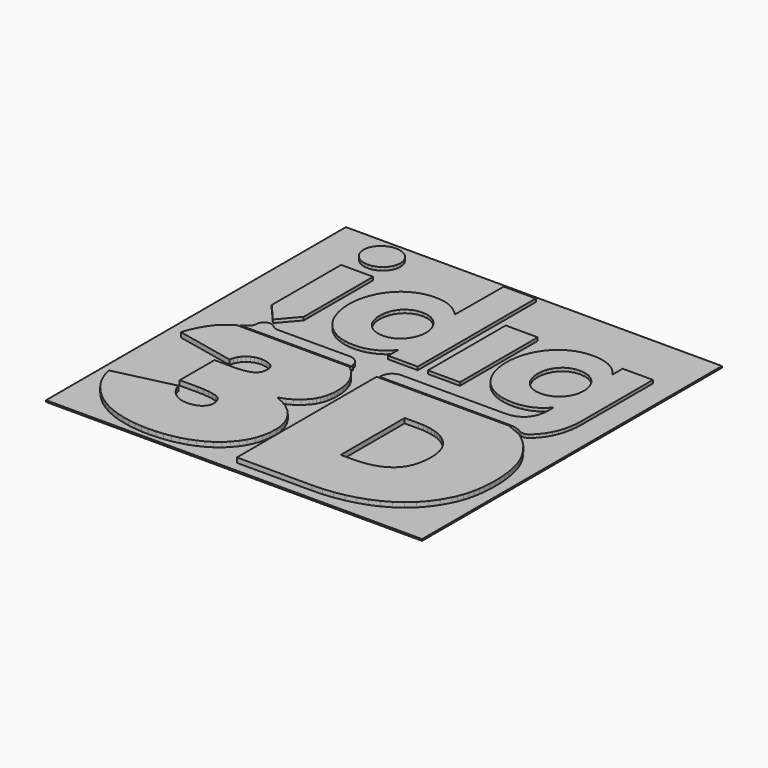
from build123d import *

# Parameters (mm, degrees)
F0_W     = 46.9185076654
F0_H     = 46.7687696218
F0_W_2   = 3.9959057482
F0_H_2   = 12.1340087248
F1_DEPTH = 0.2
F2_DEPTH = 0.4
F3_DEPTH = 0.6


with BuildPart() as f1:
    # F0 (on Top) → F1 (new body)
    with BuildSketch(Plane.XY):
        Rectangle(F0_W, F0_H)
        Polygon((-20.8741723719, -18.0882601642), (-21.2963307093, -17.3120969048), (-21.6419878097, -16.4699285664), (-21.9112868955, -15.5616937678), (-14.579116983, -13.8442113289), (-14.4440377728, -14.2651625059), (-14.2365493949, -14.6697658657), (-13.9568155322, -15.057939567), (-13.6047338829, -15.4295813079), (-13.1887954909, -15.7473918762), (-12.7172254157, -15.974399425), (-12.1898395142, -16.110706256), (-11.6065150243, -16.1562305278), (-11.2679576642, -16.1354632757), (-10.9129706457, -16.0736321074), (-10.5661882262, -15.9660720638), (-10.2523878859, -15.8094685687), (-9.9799788273, -15.5987883767), (-9.7569610462, -15.3304713876), (-9.6084598485, -14.9918935672), (-9.5588025865, -14.5708810092), (-9.6166644476, -14.0876689966), (-9.7900454271, -13.6953623053), (-10.078986446, -13.3940018559), (-10.4835898058, -13.1836285691), (-10.985359353, -13.0390966787), (-11.5654511081, -12.9358742286), (-12.2239469125, -12.8739407586), (-12.960662623, -12.8533985703), (-15.2066358222, -12.8533985703), (-15.2066358222, -7.4368286356), (-12.696478624, -7.4368286356), (-12.09993675, -7.4150588265), (-11.5652260443, -7.3500153837), (-11.0925715707, -7.2416983073), (-10.6817482654, -7.0899439144), (-10.3495131526, -6.8762560514), (-10.1121731286, -6.5820976441), (-9.9696668125, -6.2074482322), (-9.922157887, -5.7523282759), (-9.959313877, -5.4012287232), (-10.0707818469, -5.1081547143), (-10.2566027173, -4.8728402647), (-10.516571885, -4.6954695175), (-11.127742907, -4.4724517364), (-11.7717118651, -4.3981806771), (-12.1764175266, -4.4300374373), (-12.5644889262, -4.5260578452), (-12.936007905, -4.6860168372), (-13.2909949236, -4.9101599374), (-13.6048157243, -5.1958682215), (-13.8525905251, -5.5416276236), (-14.0341965642, -5.9473767628), (-14.1497361431, -6.412931496), (-21.4489648971, -4.8606254376), (-21.1207195519, -3.9408510034), (-20.7306430384, -3.0975982666), (-20.2785307531, -2.330744465), (-19.7644645374, -1.6404123608), (-19.4045874959, -1.2635327711), (-19.000741169, -0.9265508577), (-18.5592887244, -0.6145305676), (-18.0868593146, -0.3121266406), (-4.0067237744, -0.3121266406), (-3.2959313233, -1.01043828), (-2.688872831, -1.8055273603), (-2.3134254655, -2.4917673951), (-2.0449857143, -3.2461813057), (-1.8839627842, -4.0687281715), (-1.8301520719, -4.9596535166), (-1.8465203494, -5.4423949412), (-1.895215975, -5.8998678374), (-1.9764435522, -6.3321131258), (-2.0904076844, -6.7389466634), (-2.2366991647, -7.1205730537), (-2.4155225965, -7.4769104552), (-2.6268779799, -7.8080202489), (-2.8705607114, -8.1138410539), (-3.4186934047, -8.6535440843), (-4.0225805432, -9.1004594415), (-4.6820584443, -9.4544439031), (-5.3972498699, -9.7157429932), (-5.3972498699, -9.8478349928), (-4.5427644026, -10.2028424717), (-3.7623863118, -10.6734918313), (-3.0731181457, -11.2431692698), (-2.4908166731, -11.8955474305), (-2.0243207639, -12.6179613586), (-1.6816099535, -13.3983189891), (-1.4710729839, -14.2115359367), (-1.4008939941, -15.0333053093), (-1.4547047064, -16.0209057935), (-1.6157276365, -16.9363835549), (-1.8841673877, -17.7795749107), (-2.2596147532, -18.5507049247), (-2.722018593, -19.2523720611), (-3.2505093532, -19.8881978011), (-3.8449642718, -20.4579980017), (-4.5054447299, -20.961834044), (-5.2218637764, -21.4004220399), (-5.9835820308, -21.7750530376), (-6.7908040968, -22.0857556814), (-7.6432026087, -22.3325176951), (-8.5204809024, -22.5202270556), (-9.4019740276, -22.6544326089), (-10.2875592222, -22.7349113374), (-11.1771751051, -22.7618842127), (-12.065849812, -22.7360223343), (-12.9483454942, -22.6585390006), (-13.8246212309, -22.5295508357), (-14.6946770222, -22.3489493997), (-15.5431676079, -22.1125075849), (-16.3543999018, -21.8162376699), (-17.1284557455, -21.4602480943), (-17.8653965199, -21.0444324644), (-18.5610687746, -20.5695273526), (-19.2111962971, -20.036944523), (-19.8160859926, -19.4465202927), (-20.3755332577, -18.7984592652), align=None, mode=Mode.SUBTRACT)
        Polygon((17.9865123077, -19.2773541446), (17.026717435, -19.9492514762), (15.9967435724, -20.5282383726), (14.8963861165, -21.0143352941), (13.7260542742, -21.4076240821), (12.5080498237, -21.7110039677), (11.2652883534, -21.9277956653), (9.9979744669, -22.057894827), (8.7059035606, -22.1012953148), (-0.6741424725, -22.1012953148), (-0.6741424725, -0.3121266406), (15.8115651001, -0.3121266406), (17.8050290308, -1.1450673626), (18.7224709855, -1.8683406252), (19.5433401028, -2.7012813472), (20.266817969, -3.643562163), (20.8931091873, -4.6954695175), (21.1637995767, -5.2665791803), (21.3988889625, -5.8740059589), (21.5975589309, -6.5174838687), (21.7600140852, -7.1971561321), (21.886459029, -7.9130432095), (21.9768937623, -8.6648791165), (22.0311136815, -9.4530116788), (22.0491187868, -10.2772158327), (22.0317274919, -11.032141252), (21.9799628143, -11.7613275549), (21.8934155469, -12.4646519793), (21.7722902933, -13.1422372874), (21.6167916569, -13.7940630187), (21.4267150343, -14.4200064112), (21.2020604254, -15.0202106873), (20.9428278303, -15.5947781487), (20.3429304594, -16.6670640087), (19.6503477171, -17.6382552947), (18.8648749998, -18.5084133877), align=None, mode=Mode.SUBTRACT)
        Polygon((-18.3634133115, 16.2628393228), (-14.3678963099, 16.2628393228), (-14.3678963099, 5.4421802651), (-16.3564374245, 3.1156342199), (-18.3634133115, 5.4421802651), align=None, mode=Mode.SUBTRACT)
        Polygon((-15.4147908794, 2.048013319), (-15.2335122059, 1.903154063), (-15.0312616769, 1.7961464487), (-14.8139114119, 1.7284227005), (-14.5871289269, 1.7016196461), (-5.680126114, 1.7339469942), (-5.4009446806, 1.7063255259), (-5.1350010917, 1.6257117591), (-4.8897838342, 1.494765539), (-4.6727609347, 1.316760521), (-4.5027149917, 1.1115432417), (-4.3749401254, 0.8805459253), (-4.2919120377, 0.6299066758), (-4.2565156375, 0.3661728044), (-4.0091909643, 0.1640245771), (-18.0893265046, 0.1640245771), (-17.596150303, 0.4709297805), (-17.354677289, 0.6460703499), (-17.1732144724, 0.8433080939), (-17.0589638954, 1.0777836693), (-17.0192503621, 1.3646377328), (-17.0189025362, 1.3646377328), (-16.9996902704, 1.5555327693), (-16.9444268735, 1.7335377873), (-16.8570611922, 1.8943561138), (-16.7412965495, 2.03450949), (-16.6010817923, 2.1503150535), (-16.4400179415, 2.2376807347), (-16.2621766063, 2.2929236713), (-16.0711588077, 2.3121563974), (-15.8851128734, 2.2939466886), (-15.7113636076, 2.2415682006), (-15.5534301899, 2.1582945887), align=None, mode=Mode.SUBTRACT)
        Polygon((-15.0821056389, 21.9585906909), (-14.7480904759, 21.6962890437), (-14.4730011119, 21.3764938218), (-14.2582288506, 21.0022740771), (-14.1216969558, 20.5848830005), (-14.0755179528, 20.137006007), (-14.1216969558, 19.689333617), (-14.2582288506, 19.2719425404), (-14.4730011119, 18.8975181922), (-14.7480904759, 18.5777229703), (-15.0821056389, 18.3158305301), (-15.4791386704, 18.1149099236), (-15.9124274365, 17.9866235486), (-16.3674041704, 17.944066027), (-16.8350663193, 17.9843729104), (-17.2622374418, 18.105498164), (-17.6495313481, 18.3074417879), (-17.9977255315, 18.5899991784), (-18.2856844537, 18.9286179195), (-18.4912904796, 19.2995640087), (-18.6146868317, 19.7022236355), (-18.6557916686, 20.137006007), (-18.6142776248, 20.5666732918), (-18.4876076172, 20.9775170574), (-18.279689572, 21.3523506125), (-17.9977255315, 21.6721458344), (-17.6582883766, 21.9371073267), (-17.266677337, 22.1474396927), (-16.8362939401, 22.2845240169), (-16.3674041704, 22.329945987), (-15.9124274365, 22.2873884655), (-15.4791386704, 22.1595112974), align=None, mode=Mode.SUBTRACT)
        Polygon((-3.1664173275, 15.0088246618), (-3.1199842883, 22.586518737), (0.8761260633, 22.586518737), (0.8761260633, 4.1662730328), (-2.8032581184, 4.1662730328), (-2.8007909285, 5.7496992789), (-3.1756364319, 5.3136892866), (-3.5617231778, 4.9306715927), (-4.0101935213, 4.6010554043), (-4.5211293039, 4.3246361178), (-5.0717172388, 4.106119613), (-5.6389394357, 3.9500071662), (-6.2229391171, 3.8562987774), (-6.8237162829, 3.8249944466), (-7.4875113171, 3.8585494155), (-8.1149073943, 3.9592143223), (-8.7058840539, 4.1267845633), (-9.260257153, 4.3610555352), (-9.7757351326, 4.6509786507), (-10.250087815, 4.9855053224), (-10.6832128983, 5.3640217399), (-11.0752945258, 5.7865279033), (-11.4248390922, 6.2487271396), (-11.7301074678, 6.7459135691), (-11.991406558, 7.2782917952), (-12.2084089971, 7.8452480076), (-12.3791505919, 8.4361428259), (-12.5010328784, 9.0393138523), (-12.5740558564, 9.6545564834), (-12.5983832089, 10.2818707191), (-12.5732988236, 10.9085711444), (-12.4979024453, 11.5215631373), (-12.3723577568, 12.1208466978), (-12.1964192338, 12.7064218259), (-11.9739743424, 13.2676491412), (-11.7089105484, 13.7936846598), (-11.4012892329, 14.2851421922), (-11.0509671734, 14.7407941175), (-10.6595607373, 15.1565483663), (-10.2286453714, 15.5268806451), (-9.7580983136, 15.8511771434), (-9.2479195638, 16.1296424646), (-8.701996588, 16.3534786596), (-8.1241145504, 16.5134785723), (-7.5141302284, 16.6096422027), (-6.8721050033, 16.6417649473), (-6.2280542038, 16.6096422027), (-5.6358499233, 16.5134785723), (-5.0952466377, 16.3534786596), (-4.6062648073, 16.1296424646), (-4.169129496, 15.8679546278), (-3.7838407036, 15.593581376), (-3.4504188907, 15.3075457264), align=None, mode=Mode.SUBTRACT)
        with Locations((4.140983617, 10.2332773952)):
            Rectangle(F0_W_2, F0_H_2, mode=Mode.SUBTRACT)
        Polygon((16.7451711135, 16.3002817577), (20.5219465464, 16.3002817577), (20.5219465464, 5.3114386484), (20.4902330087, 4.4508764581), (20.3940693783, 3.648421653), (20.2344786726, 2.9036650261), (20.0104378741, 2.2168111809), (19.7286988974, 1.587246307), (19.3949906396, 1.013947387), (19.009926911, 0.496914421), (18.5726892979, 0.0363520125), (18.262919646, -0.2320877387), (18.0239427943, -0.3703996837), (17.7597997159, -0.4285070689), (17.4905415508, -0.4053868769), (17.2349918181, -0.2996068835), (17.218828144, -0.2910135378), (16.8409255369, -0.095617225), (16.4415395656, 0.0457637721), (16.0270129375, 0.1319018325), (15.6024607395, 0.1607509216), (15.2609775498, 0.1611601285), (14.8673204756, 0.161364732), (14.4257861897, 0.1617739389), (13.9406713648, 0.1619785424), (13.4156588636, 0.1621831459), (12.8554545656, 0.1621831459), (12.2637413335, 0.1625923528), (11.64481584, 0.1627969563), (11.002565551, 0.1627969563), (10.3414917429, 0.1630015598), (9.6654818816, 0.1632061632), (8.9786280364, 0.1632061632), (8.2850222767, 0.1634107667), (7.5891658789, 0.1634107667), (6.8945371019, 0.1634107667), (6.2060464289, 0.1636153702), (5.5269675155, 0.1636153702), (4.8618016381, 0.1636153702), (4.2150500728, 0.1638199736), (3.5903956821, 0.1638199736), (2.9919305355, 0.1638199736), (2.4239513058, 0.1640245771), (1.8903454588, 0.1640245771), (1.3956142709, 0.1640245771), (0.9434406046, 0.1640245771), (0.5383257361, 0.1640245771), (0.1841571314, 0.1640245771), (-0.1147685367, 0.1640245771), (-0.3543591988, 0.1640245771), (-0.530727389, 0.1640245771), (-0.6395764345, 0.1640245771), (-0.6766096624, 0.1640245771), (-0.6766096624, 0.3342546632), (-0.6491927975, 0.6135383983), (-0.5683744273, 0.8795229079), (-0.4374282072, 1.1246378637), (-0.2594231892, 1.3415175408), (-0.0425435122, 1.5195225588), (0.2025714436, 1.6502641754), (0.4685559532, 1.7310825456), (0.7480442918, 1.7587040139), (1.0027756106, 1.7587040139), (1.3017012787, 1.7587040139), (1.6409338302, 1.7587040139), (2.017404213, 1.7587040139), (2.4274295647, 1.7587040139), (2.8679408333, 1.7587040139), (3.3350505529, 1.7587040139), (3.8258942749, 1.7587040139), (4.3367891368, 1.7587040139), (4.8642568797, 1.7587040139), (5.4050238481, 1.7587040139), (5.9554071795, 1.7587040139), (6.5123378219, 1.7587040139), (7.0721329129, 1.7587040139), (7.6317234004, 1.7587040139), (8.1872218186, 1.7587040139), (8.7357637188, 1.7587040139), (9.2734616351, 1.7587040139), (9.7970419121, 1.7587040139), (10.3032308942, 1.7587040139), (10.7885503225, 1.7587040139), (11.2497265415, 1.7587040139), (11.6828720852, 1.7587040139), (12.0853271086, 1.7587040139), (12.4525903353, 1.7587040139), (12.7824111272, 1.7587040139), (13.070697415, 1.7587040139), (13.3143801465, 1.7587040139), (13.5097764593, 1.7587040139), (13.6536126979, 1.7587040139), (13.742206, 1.7587040139), (13.7726919169, 1.7587040139), (14.3907989965, 1.8116963124), (14.9440467765, 1.9688317765), (15.4271155666, 2.2266321474), (15.8346856767, 2.5822329764), (16.1608236062, 3.032769815), (16.4006188718, 3.5749690076), (16.5487517833, 4.2055568989), (16.5992888401, 4.9216690401), (16.5992888401, 5.6525126311), (16.5260407982, 5.6525126311), (16.221386233, 5.3053005443), (15.8682406456, 4.9947124785), (15.4659902257, 4.7207484336), (15.0154533871, 4.4832038062), (14.5233820444, 4.2910811489), (13.9979603361, 4.1539968247), (13.438983659, 4.0717462302), (12.84686122, 4.0443293653), (12.1722835829, 4.0756336961), (11.5371944153, 4.1693420849), (10.9417983208, 4.3254545316), (10.3858906957, 4.5439710365), (9.8704945574, 4.8156844432), (9.3962237165, 5.1315921992), (8.9628735693, 5.491898908), (8.5706487193, 5.8959907591), (8.2211859944, 6.3401848902), (7.9159176188, 6.8189570075), (7.6548435924, 7.3331255249), (7.4375547084, 7.882076632), (7.2669154153, 8.4570123797), (7.1451763513, 9.0483164049), (7.0721329129, 9.6568071215), (7.0477851001, 10.2818707191), (7.0721329129, 10.907957334), (7.1451763513, 11.5182894818), (7.2669154153, 12.1138901799), (7.4375547084, 12.6943502213), (7.6548435924, 13.2500532429), (7.9159176188, 13.772405899), (8.2211859944, 14.2612035863), (8.5706487193, 14.7164463047), (8.9628735693, 15.1330189674), (9.3962237165, 15.5051926774), (9.8704945574, 15.833581245), (10.3858906957, 16.1175708599), (10.9403660965, 16.3467267451), (11.5310563113, 16.5104095202), (12.1585751505, 16.6086191853), (12.8223088037, 16.6417649473), (13.3888558091, 16.6127112547), (13.9431266065, 16.5257547804), (14.4853257991, 16.3811001279), (15.0154533871, 16.1785426936), (15.513253627, 15.9150134257), (15.9596983962, 15.5876478754), (16.3541738843, 15.1964460428), (16.6968846948, 14.7407941175), (16.7451711135, 14.7407941175), align=None, mode=Mode.SUBTRACT)
        Polygon((15.9967435724, -20.5282383726), (17.026717435, -19.9492514762), (17.9865123077, -19.2773541446), (18.8648749998, -18.5084133877), (19.6503477171, -17.6382552947), (20.3429304594, -16.6670640087), (20.9428278303, -15.5947781487), (21.2020604254, -15.0202106873), (21.4267150343, -14.4200064112), (21.6167916569, -13.7940630187), (21.7722902933, -13.1422372874), (21.8934155469, -12.4646519793), (21.9799628143, -11.7613275549), (22.0317274919, -11.032141252), (22.0491187868, -10.2772158327), (22.0311136815, -9.4530116788), (21.9768937623, -8.6648791165), (21.886459029, -7.9130432095), (21.7600140852, -7.1971561321), (21.5975589309, -6.5174838687), (21.3988889625, -5.8740059589), (21.1637995767, -5.2665791803), (20.8931091873, -4.6954695175), (20.266817969, -3.643562163), (19.5433401028, -2.7012813472), (18.7224709855, -1.8683406252), (17.8050290308, -1.1450673626), (15.8115651001, -0.3121266406), (-0.6741424725, -0.3121266406), (-0.6741424725, -22.1012953148), (8.7059035606, -22.1012953148), (9.9979744669, -22.057894827), (11.2652883534, -21.9277956653), (12.5080498237, -21.7110039677), (13.7260542742, -21.4076240821), (14.8963861165, -21.0143352941), align=None)
        Polygon((13.717665532, -12.5683450174), (13.5085607868, -13.0376644544), (13.253420261, -13.4590452987), (12.9512209374, -13.8324466295), (12.6031904367, -14.1580321296), (12.2113747937, -14.4405485995), (11.7794568708, -14.6853157294), (11.3070274611, -14.892558583), (10.7947003749, -15.062072557), (10.2420664053, -15.1939190324), (9.6489209489, -15.2881798506), (9.015877816, -15.3446708683), (8.3423231963, -15.3635353082), (6.8890247565, -15.3635353082), (6.8890247565, -5.3890138961), (8.6396120367, -5.3890138961), (9.2433968735, -5.4087785912), (9.8162865865, -5.4683795817), (10.3582811757, -5.5677350262), (10.8689714341, -5.7068244644), (11.3489711722, -5.8856478963), (11.797871183, -6.1042053218), (12.2158760701, -6.3625172013), (12.6031904367, -6.6605630745), (12.9512209374, -6.9941485702), (13.253420261, -7.3592225398), (13.5085607868, -7.7557236023), (13.717665532, -8.1838972817), (13.8803252898, -8.6434571333), (13.9965400602, -9.134525919), (14.0661052396, -9.6571445597), (14.089430035, -10.2111698329), (14.0661052396, -10.8724073238), (13.9965400602, -11.4857062219), (13.8803252898, -12.0510665272), align=None, mode=Mode.SUBTRACT)
        Polygon((-21.6419878097, -16.4699285664), (-21.2963307093, -17.3120969048), (-20.8741723719, -18.0882601642), (-20.3755332577, -18.7984592652), (-19.8160859926, -19.4465202927), (-19.2111962971, -20.036944523), (-18.5610687746, -20.5695273526), (-17.8653965199, -21.0444324644), (-17.1284557455, -21.4602480943), (-16.3543999018, -21.8162376699), (-15.5431676079, -22.1125075849), (-14.6946770222, -22.3489493997), (-13.8246212309, -22.5295508357), (-12.9483454942, -22.6585390006), (-12.065849812, -22.7360223343), (-11.1771751051, -22.7618842127), (-10.2875592222, -22.7349113374), (-9.4019740276, -22.6544326089), (-8.5204809024, -22.5202270556), (-7.6432026087, -22.3325176951), (-6.7908040968, -22.0857556814), (-5.9835820308, -21.7750530376), (-5.2218637764, -21.4004220399), (-4.5054447299, -20.961834044), (-3.8449642718, -20.4579980017), (-3.2505093532, -19.8881978011), (-2.722018593, -19.2523720611), (-2.2596147532, -18.5507049247), (-1.8841673877, -17.7795749107), (-1.6157276365, -16.9363835549), (-1.4547047064, -16.0209057935), (-1.4008939941, -15.0333053093), (-1.4710729839, -14.2115359367), (-1.6816099535, -13.3983189891), (-2.0243207639, -12.6179613586), (-2.4908166731, -11.8955474305), (-3.0731181457, -11.2431692698), (-3.7623863118, -10.6734918313), (-4.5427644026, -10.2028424717), (-5.3972498699, -9.8478349928), (-5.3972498699, -9.7157429932), (-4.6820584443, -9.4544439031), (-4.0225805432, -9.1004594415), (-3.4186934047, -8.6535440843), (-2.8705607114, -8.1138410539), (-2.6268779799, -7.8080202489), (-2.4155225965, -7.4769104552), (-2.2366991647, -7.1205730537), (-2.0904076844, -6.7389466634), (-1.9764435522, -6.3321131258), (-1.895215975, -5.8998678374), (-1.8465203494, -5.4423949412), (-1.8301520719, -4.9596535166), (-1.8839627842, -4.0687281715), (-2.0449857143, -3.2461813057), (-2.3134254655, -2.4917673951), (-2.688872831, -1.8055273603), (-3.2959313233, -1.01043828), (-4.0067237744, -0.3121266406), (-18.0868593146, -0.3121266406), (-18.5592887244, -0.6145305676), (-19.000741169, -0.9265508577), (-19.4045874959, -1.2635327711), (-19.7644645374, -1.6404123608), (-20.2785307531, -2.330744465), (-20.7306430384, -3.0975982666), (-21.1207195519, -3.9408510034), (-21.4489648971, -4.8606254376), (-14.1497361431, -6.412931496), (-14.0341965642, -5.9473767628), (-13.8525905251, -5.5416276236), (-13.6048157243, -5.1958682215), (-13.2909949236, -4.9101599374), (-12.936007905, -4.6860168372), (-12.5644889262, -4.5260578452), (-12.1764175266, -4.4300374373), (-11.7717118651, -4.3981806771), (-11.127742907, -4.4724517364), (-10.516571885, -4.6954695175), (-10.2566027173, -4.8728402647), (-10.0707818469, -5.1081547143), (-9.959313877, -5.4012287232), (-9.922157887, -5.7523282759), (-9.9696668125, -6.2074482322), (-10.1121731286, -6.5820976441), (-10.3495131526, -6.8762560514), (-10.6817482654, -7.0899439144), (-11.0925715707, -7.2416983073), (-11.5652260443, -7.3500153837), (-12.09993675, -7.4150588265), (-12.696478624, -7.4368286356), (-15.2066358222, -7.4368286356), (-15.2066358222, -12.8533985703), (-12.960662623, -12.8533985703), (-12.2239469125, -12.8739407586), (-11.5654511081, -12.9358742286), (-10.985359353, -13.0390966787), (-10.4835898058, -13.1836285691), (-10.078986446, -13.3940018559), (-9.7900454271, -13.6953623053), (-9.6166644476, -14.0876689966), (-9.5588025865, -14.5708810092), (-9.6084598485, -14.9918935672), (-9.7569610462, -15.3304713876), (-9.9799788273, -15.5987883767), (-10.2523878859, -15.8094685687), (-10.5661882262, -15.9660720638), (-10.9129706457, -16.0736321074), (-11.2679576642, -16.1354632757), (-11.6065150243, -16.1562305278), (-12.1898395142, -16.110706256), (-12.7172254157, -15.974399425), (-13.1887954909, -15.7473918762), (-13.6047338829, -15.4295813079), (-13.9568155322, -15.057939567), (-14.2365493949, -14.6697658657), (-14.4440377728, -14.2651625059), (-14.579116983, -13.8442113289), (-21.9112868955, -15.5616937678), align=None)
        Polygon((20.5219465464, 5.3114386484), (20.5219465464, 16.3002817577), (16.7451711135, 16.3002817577), (16.7451711135, 14.7407941175), (16.6968846948, 14.7407941175), (16.3541738843, 15.1964460428), (15.9596983962, 15.5876478754), (15.513253627, 15.9150134257), (15.0154533871, 16.1785426936), (14.4853257991, 16.3811001279), (13.9431266065, 16.5257547804), (13.3888558091, 16.6127112547), (12.8223088037, 16.6417649473), (12.1585751505, 16.6086191853), (11.5310563113, 16.5104095202), (10.9403660965, 16.3467267451), (10.3858906957, 16.1175708599), (9.8704945574, 15.833581245), (9.3962237165, 15.5051926774), (8.9628735693, 15.1330189674), (8.5706487193, 14.7164463047), (8.2211859944, 14.2612035863), (7.9159176188, 13.772405899), (7.6548435924, 13.2500532429), (7.4375547084, 12.6943502213), (7.2669154153, 12.1138901799), (7.1451763513, 11.5182894818), (7.0721329129, 10.907957334), (7.0477851001, 10.2818707191), (7.0721329129, 9.6568071215), (7.1451763513, 9.0483164049), (7.2669154153, 8.4570123797), (7.4375547084, 7.882076632), (7.6548435924, 7.3331255249), (7.9159176188, 6.8189570075), (8.2211859944, 6.3401848902), (8.5706487193, 5.8959907591), (8.9628735693, 5.491898908), (9.3962237165, 5.1315921992), (9.8704945574, 4.8156844432), (10.3858906957, 4.5439710365), (10.9417983208, 4.3254545316), (11.5371944153, 4.1693420849), (12.1722835829, 4.0756336961), (12.84686122, 4.0443293653), (13.438983659, 4.0717462302), (13.9979603361, 4.1539968247), (14.5233820444, 4.2910811489), (15.0154533871, 4.4832038062), (15.4659902257, 4.7207484336), (15.8682406456, 4.9947124785), (16.221386233, 5.3053005443), (16.5260407982, 5.6525126311), (16.5992888401, 5.6525126311), (16.5992888401, 4.9216690401), (16.5487517833, 4.2055568989), (16.4006188718, 3.5749690076), (16.1608236062, 3.032769815), (15.8346856767, 2.5822329764), (15.4271155666, 2.2266321474), (14.9440467765, 1.9688317765), (14.3907989965, 1.8116963124), (13.7726919169, 1.7587040139), (13.742206, 1.7587040139), (13.6536126979, 1.7587040139), (13.5097764593, 1.7587040139), (13.3143801465, 1.7587040139), (13.070697415, 1.7587040139), (12.7824111272, 1.7587040139), (12.4525903353, 1.7587040139), (12.0853271086, 1.7587040139), (11.6828720852, 1.7587040139), (11.2497265415, 1.7587040139), (10.7885503225, 1.7587040139), (10.3032308942, 1.7587040139), (9.7970419121, 1.7587040139), (9.2734616351, 1.7587040139), (8.7357637188, 1.7587040139), (8.1872218186, 1.7587040139), (7.6317234004, 1.7587040139), (7.0721329129, 1.7587040139), (6.5123378219, 1.7587040139), (5.9554071795, 1.7587040139), (5.4050238481, 1.7587040139), (4.8642568797, 1.7587040139), (4.3367891368, 1.7587040139), (3.8258942749, 1.7587040139), (3.3350505529, 1.7587040139), (2.8679408333, 1.7587040139), (2.4274295647, 1.7587040139), (2.017404213, 1.7587040139), (1.6409338302, 1.7587040139), (1.3017012787, 1.7587040139), (1.0027756106, 1.7587040139), (0.7480442918, 1.7587040139), (0.4685559532, 1.7310825456), (0.2025714436, 1.6502641754), (-0.0425435122, 1.5195225588), (-0.2594231892, 1.3415175408), (-0.4374282072, 1.1246378637), (-0.5683744273, 0.8795229079), (-0.6491927975, 0.6135383983), (-0.6766096624, 0.3342546632), (-0.6766096624, 0.1640245771), (-0.6395764345, 0.1640245771), (-0.530727389, 0.1640245771), (-0.3543591988, 0.1640245771), (-0.1147685367, 0.1640245771), (0.1841571314, 0.1640245771), (0.5383257361, 0.1640245771), (0.9434406046, 0.1640245771), (1.3956142709, 0.1640245771), (1.8903454588, 0.1640245771), (2.4239513058, 0.1640245771), (2.9919305355, 0.1638199736), (3.5903956821, 0.1638199736), (4.2150500728, 0.1638199736), (4.8618016381, 0.1636153702), (5.5269675155, 0.1636153702), (6.2060464289, 0.1636153702), (6.8945371019, 0.1634107667), (7.5891658789, 0.1634107667), (8.2850222767, 0.1634107667), (8.9786280364, 0.1632061632), (9.6654818816, 0.1632061632), (10.3414917429, 0.1630015598), (11.002565551, 0.1627969563), (11.64481584, 0.1627969563), (12.2637413335, 0.1625923528), (12.8554545656, 0.1621831459), (13.4156588636, 0.1621831459), (13.9406713648, 0.1619785424), (14.4257861897, 0.1617739389), (14.8673204756, 0.161364732), (15.2609775498, 0.1611601285), (15.6024607395, 0.1607509216), (16.0270129375, 0.1319018325), (16.4415395656, 0.0457637721), (16.8409255369, -0.095617225), (17.218828144, -0.2910135378), (17.2349918181, -0.2996068835), (17.4905415508, -0.4053868769), (17.7597997159, -0.4285070689), (18.0239427943, -0.3703996837), (18.262919646, -0.2320877387), (18.5726892979, 0.0363520125), (19.009926911, 0.496914421), (19.3949906396, 1.013947387), (19.7286988974, 1.587246307), (20.0104378741, 2.2168111809), (20.2344786726, 2.9036650261), (20.3940693783, 3.648421653), (20.4902330087, 4.4508764581), align=None)
        Polygon((11.6771431881, 12.4748106991), (12.0820534531, 12.8465752021), (12.5665544675, 13.1328154552), (13.1302370244, 13.3155263529), (13.7726919169, 13.3762935832), (14.4186250683, 13.3155263529), (14.9909009709, 13.1328154552), (15.490542642, 12.8435061501), (15.9169362712, 12.4627390944), (16.261079306, 12.0027904963), (16.514173797, 11.4759365638), (16.6692632265, 10.9034560577), (16.7206186972, 10.3060139284), (16.6692632265, 9.6911805043), (16.514173797, 9.1123572907), (16.2639437545, 8.5885724103), (15.9290078759, 8.1376263647), (15.5087523507, 7.7634066201), (15.0033817825, 7.467550004), (14.4214895168, 7.2756319501), (13.7726919169, 7.2117956678), (13.1302370244, 7.2756319501), (12.5665544675, 7.467550004), (12.0820534531, 7.7660664652), (11.6771431881, 8.1501071763), (11.3542789141, 8.609851171), (11.1171434936, 9.1367051035), (10.9706474099, 9.709390213), (10.9221563877, 10.3060139284), (10.9706474099, 10.9216657664), (11.1171434936, 11.5000797731), (11.3542789141, 12.024069257), align=None, mode=Mode.SUBTRACT)
        Polygon((0.8761260633, 22.586518737), (-3.1199842883, 22.586518737), (-3.1664173275, 15.0088246618), (-3.4504188907, 15.3075457264), (-3.7838407036, 15.593581376), (-4.169129496, 15.8679546278), (-4.6062648073, 16.1296424646), (-5.0952466377, 16.3534786596), (-5.6358499233, 16.5134785723), (-6.2280542038, 16.6096422027), (-6.8721050033, 16.6417649473), (-7.5141302284, 16.6096422027), (-8.1241145504, 16.5134785723), (-8.701996588, 16.3534786596), (-9.2479195638, 16.1296424646), (-9.7580983136, 15.8511771434), (-10.2286453714, 15.5268806451), (-10.6595607373, 15.1565483663), (-11.0509671734, 14.7407941175), (-11.4012892329, 14.2851421922), (-11.7089105484, 13.7936846598), (-11.9739743424, 13.2676491412), (-12.1964192338, 12.7064218259), (-12.3723577568, 12.1208466978), (-12.4979024453, 11.5215631373), (-12.5732988236, 10.9085711444), (-12.5983832089, 10.2818707191), (-12.5740558564, 9.6545564834), (-12.5010328784, 9.0393138523), (-12.3791505919, 8.4361428259), (-12.2084089971, 7.8452480076), (-11.991406558, 7.2782917952), (-11.7301074678, 6.7459135691), (-11.4248390922, 6.2487271396), (-11.0752945258, 5.7865279033), (-10.6832128983, 5.3640217399), (-10.250087815, 4.9855053224), (-9.7757351326, 4.6509786507), (-9.260257153, 4.3610555352), (-8.7058840539, 4.1267845633), (-8.1149073943, 3.9592143223), (-7.4875113171, 3.8585494155), (-6.8237162829, 3.8249944466), (-6.2229391171, 3.8562987774), (-5.6389394357, 3.9500071662), (-5.0717172388, 4.106119613), (-4.5211293039, 4.3246361178), (-4.0101935213, 4.6010554043), (-3.5617231778, 4.9306715927), (-3.1756364319, 5.3136892866), (-2.8007909285, 5.7496992789), (-2.8032581184, 4.1662730328), (0.8761260633, 4.1662730328), align=None)
        Polygon((-7.11609464, 13.1082630389), (-6.5372918867, 13.3091836454), (-5.8733740904, 13.3762935832), (-5.2276660028, 13.3091836454), (-4.6551036554, 13.1082630389), (-4.158694719, 12.7976749731), (-3.741221801, 12.4015626572), (-3.4062245414, 11.9326115064), (-3.1564037058, 11.4026885219), (-3.0011096729, 10.8363461199), (-2.9493449952, 10.2575229063), (-3.0011096729, 9.6789042962), (-3.1564037058, 9.1123572907), (-3.4062245414, 8.5826389097), (-3.741221801, 8.1134831554), (-4.158694719, 7.717575443), (-4.6551036554, 7.4065781702), (-5.2276660028, 7.2058621672), (-5.8733740904, 7.1387522294), (-6.5372918867, 7.2058621672), (-7.11609464, 7.4065781702), (-7.6093936036, 7.717575443), (-8.0175366034, 8.1134831554), (-8.3373522857, 8.5857079617), (-8.5655669949, 9.1248381023), (-8.7027945415, 9.7001830569), (-8.748298353, 10.2818707191), (-8.7027945415, 10.8604893292), (-8.5655669949, 11.4270363347), (-8.3373522857, 11.9538902672), (-8.0175366034, 12.4140434688), (-7.6093936036, 12.8007440251), align=None, mode=Mode.SUBTRACT)
        Polygon((13.253420261, -13.4590452987), (13.5085607868, -13.0376644544), (13.717665532, -12.5683450174), (13.8803252898, -12.0510665272), (13.9965400602, -11.4857062219), (14.0661052396, -10.8724073238), (14.089430035, -10.2111698329), (14.0661052396, -9.6571445597), (13.9965400602, -9.134525919), (13.8803252898, -8.6434571333), (13.717665532, -8.1838972817), (13.5085607868, -7.7557236023), (13.253420261, -7.3592225398), (12.9512209374, -6.9941485702), (12.6031904367, -6.6605630745), (12.2158760701, -6.3625172013), (11.797871183, -6.1042053218), (11.3489711722, -5.8856478963), (10.8689714341, -5.7068244644), (10.3582811757, -5.5677350262), (9.8162865865, -5.4683795817), (9.2433968735, -5.4087785912), (8.6396120367, -5.3890138961), (6.8890247565, -5.3890138961), (6.8890247565, -15.3635353082), (8.3423231963, -15.3635353082), (9.015877816, -15.3446708683), (9.6489209489, -15.2881798506), (10.2420664053, -15.1939190324), (10.7947003749, -15.062072557), (11.3070274611, -14.892558583), (11.7794568708, -14.6853157294), (12.2113747937, -14.4405485995), (12.6031904367, -14.1580321296), (12.9512209374, -13.8324466295), align=None)
        with Locations((4.140983617, 10.2332773952)):
            Rectangle(F0_W_2, F0_H_2)
        Polygon((-14.3678963099, 5.4421802651), (-14.3678963099, 16.2628393228), (-18.3634133115, 16.2628393228), (-18.3634133115, 5.4421802651), (-16.3564374245, 3.1156342199), align=None)
        Polygon((-5.8733740904, 13.3762935832), (-6.5372918867, 13.3091836454), (-7.11609464, 13.1082630389), (-7.6093936036, 12.8007440251), (-8.0175366034, 12.4140434688), (-8.3373522857, 11.9538902672), (-8.5655669949, 11.4270363347), (-8.7027945415, 10.8604893292), (-8.748298353, 10.2818707191), (-8.7027945415, 9.7001830569), (-8.5655669949, 9.1248381023), (-8.3373522857, 8.5857079617), (-8.0175366034, 8.1134831554), (-7.6093936036, 7.717575443), (-7.11609464, 7.4065781702), (-6.5372918867, 7.2058621672), (-5.8733740904, 7.1387522294), (-5.2276660028, 7.2058621672), (-4.6551036554, 7.4065781702), (-4.158694719, 7.717575443), (-3.741221801, 8.1134831554), (-3.4062245414, 8.5826389097), (-3.1564037058, 9.1123572907), (-3.0011096729, 9.6789042962), (-2.9493449952, 10.2575229063), (-3.0011096729, 10.8363461199), (-3.1564037058, 11.4026885219), (-3.4062245414, 11.9326115064), (-3.741221801, 12.4015626572), (-4.158694719, 12.7976749731), (-4.6551036554, 13.1082630389), (-5.2276660028, 13.3091836454), align=None)
        Polygon((12.5665544675, 13.1328154552), (12.0820534531, 12.8465752021), (11.6771431881, 12.4748106991), (11.3542789141, 12.024069257), (11.1171434936, 11.5000797731), (10.9706474099, 10.9216657664), (10.9221563877, 10.3060139284), (10.9706474099, 9.709390213), (11.1171434936, 9.1367051035), (11.3542789141, 8.609851171), (11.6771431881, 8.1501071763), (12.0820534531, 7.7660664652), (12.5665544675, 7.467550004), (13.1302370244, 7.2756319501), (13.7726919169, 7.2117956678), (14.4214895168, 7.2756319501), (15.0033817825, 7.467550004), (15.5087523507, 7.7634066201), (15.9290078759, 8.1376263647), (16.2639437545, 8.5885724103), (16.514173797, 9.1123572907), (16.6692632265, 9.6911805043), (16.7206186972, 10.3060139284), (16.6692632265, 10.9034560577), (16.514173797, 11.4759365638), (16.261079306, 12.0027904963), (15.9169362712, 12.4627390944), (15.490542642, 12.8435061501), (14.9909009709, 13.1328154552), (14.4186250683, 13.3155263529), (13.7726919169, 13.3762935832), (13.1302370244, 13.3155263529), align=None)
        Polygon((-15.0312616769, 1.7961464487), (-15.2335122059, 1.903154063), (-15.4147908794, 2.048013319), (-15.5534301899, 2.1582945887), (-15.7113636076, 2.2415682006), (-15.8851128734, 2.2939466886), (-16.0711588077, 2.3121563974), (-16.2621766063, 2.2929236713), (-16.4400179415, 2.2376807347), (-16.6010817923, 2.1503150535), (-16.7412965495, 2.03450949), (-16.8570611922, 1.8943561138), (-16.9444268735, 1.7335377873), (-16.9996902704, 1.5555327693), (-17.0189025362, 1.3646377328), (-17.0192503621, 1.3646377328), (-17.0589638954, 1.0777836693), (-17.1732144724, 0.8433080939), (-17.354677289, 0.6460703499), (-17.596150303, 0.4709297805), (-18.0893265046, 0.1640245771), (-4.0091909643, 0.1640245771), (-4.2565156375, 0.3661728044), (-4.2919120377, 0.6299066758), (-4.3749401254, 0.8805459253), (-4.5027149917, 1.1115432417), (-4.6727609347, 1.316760521), (-4.8897838342, 1.494765539), (-5.1350010917, 1.6257117591), (-5.4009446806, 1.7063255259), (-5.680126114, 1.7339469942), (-14.5871289269, 1.7016196461), (-14.8139114119, 1.7284227005), align=None)
        Polygon((-14.4730011119, 21.3764938218), (-14.7480904759, 21.6962890437), (-15.0821056389, 21.9585906909), (-15.4791386704, 22.1595112974), (-15.9124274365, 22.2873884655), (-16.3674041704, 22.329945987), (-16.8362939401, 22.2845240169), (-17.266677337, 22.1474396927), (-17.6582883766, 21.9371073267), (-17.9977255315, 21.6721458344), (-18.279689572, 21.3523506125), (-18.4876076172, 20.9775170574), (-18.6142776248, 20.5666732918), (-18.6557916686, 20.137006007), (-18.6146868317, 19.7022236355), (-18.4912904796, 19.2995640087), (-18.2856844537, 18.9286179195), (-17.9977255315, 18.5899991784), (-17.6495313481, 18.3074417879), (-17.2622374418, 18.105498164), (-16.8350663193, 17.9843729104), (-16.3674041704, 17.944066027), (-15.9124274365, 17.9866235486), (-15.4791386704, 18.1149099236), (-15.0821056389, 18.3158305301), (-14.7480904759, 18.5777229703), (-14.4730011119, 18.8975181922), (-14.2582288506, 19.2719425404), (-14.1216969558, 19.689333617), (-14.0755179528, 20.137006007), (-14.1216969558, 20.5848830005), (-14.2582288506, 21.0022740771), align=None)
    extrude(amount=-F1_DEPTH)


with BuildPart() as f2:
    # F0 (on Top) → F2 (new body)
    with BuildSketch(Plane.XY):
        Polygon((-14.4730011119, 21.3764938218), (-14.7480904759, 21.6962890437), (-15.0821056389, 21.9585906909), (-15.4791386704, 22.1595112974), (-15.9124274365, 22.2873884655), (-16.3674041704, 22.329945987), (-16.8362939401, 22.2845240169), (-17.266677337, 22.1474396927), (-17.6582883766, 21.9371073267), (-17.9977255315, 21.6721458344), (-18.279689572, 21.3523506125), (-18.4876076172, 20.9775170574), (-18.6142776248, 20.5666732918), (-18.6557916686, 20.137006007), (-18.6146868317, 19.7022236355), (-18.4912904796, 19.2995640087), (-18.2856844537, 18.9286179195), (-17.9977255315, 18.5899991784), (-17.6495313481, 18.3074417879), (-17.2622374418, 18.105498164), (-16.8350663193, 17.9843729104), (-16.3674041704, 17.944066027), (-15.9124274365, 17.9866235486), (-15.4791386704, 18.1149099236), (-15.0821056389, 18.3158305301), (-14.7480904759, 18.5777229703), (-14.4730011119, 18.8975181922), (-14.2582288506, 19.2719425404), (-14.1216969558, 19.689333617), (-14.0755179528, 20.137006007), (-14.1216969558, 20.5848830005), (-14.2582288506, 21.0022740771), align=None)
    extrude(amount=F2_DEPTH)


with BuildPart() as f2b:
    # F0 (on Top) → F2, piece 2 (new body)
    with BuildSketch(Plane.XY):
        Polygon((0.8761260633, 22.586518737), (-3.1199842883, 22.586518737), (-3.1664173275, 15.0088246618), (-3.4504188907, 15.3075457264), (-3.7838407036, 15.593581376), (-4.169129496, 15.8679546278), (-4.6062648073, 16.1296424646), (-5.0952466377, 16.3534786596), (-5.6358499233, 16.5134785723), (-6.2280542038, 16.6096422027), (-6.8721050033, 16.6417649473), (-7.5141302284, 16.6096422027), (-8.1241145504, 16.5134785723), (-8.701996588, 16.3534786596), (-9.2479195638, 16.1296424646), (-9.7580983136, 15.8511771434), (-10.2286453714, 15.5268806451), (-10.6595607373, 15.1565483663), (-11.0509671734, 14.7407941175), (-11.4012892329, 14.2851421922), (-11.7089105484, 13.7936846598), (-11.9739743424, 13.2676491412), (-12.1964192338, 12.7064218259), (-12.3723577568, 12.1208466978), (-12.4979024453, 11.5215631373), (-12.5732988236, 10.9085711444), (-12.5983832089, 10.2818707191), (-12.5740558564, 9.6545564834), (-12.5010328784, 9.0393138523), (-12.3791505919, 8.4361428259), (-12.2084089971, 7.8452480076), (-11.991406558, 7.2782917952), (-11.7301074678, 6.7459135691), (-11.4248390922, 6.2487271396), (-11.0752945258, 5.7865279033), (-10.6832128983, 5.3640217399), (-10.250087815, 4.9855053224), (-9.7757351326, 4.6509786507), (-9.260257153, 4.3610555352), (-8.7058840539, 4.1267845633), (-8.1149073943, 3.9592143223), (-7.4875113171, 3.8585494155), (-6.8237162829, 3.8249944466), (-6.2229391171, 3.8562987774), (-5.6389394357, 3.9500071662), (-5.0717172388, 4.106119613), (-4.5211293039, 4.3246361178), (-4.0101935213, 4.6010554043), (-3.5617231778, 4.9306715927), (-3.1756364319, 5.3136892866), (-2.8007909285, 5.7496992789), (-2.8032581184, 4.1662730328), (0.8761260633, 4.1662730328), align=None)
        Polygon((-7.11609464, 13.1082630389), (-6.5372918867, 13.3091836454), (-5.8733740904, 13.3762935832), (-5.2276660028, 13.3091836454), (-4.6551036554, 13.1082630389), (-4.158694719, 12.7976749731), (-3.741221801, 12.4015626572), (-3.4062245414, 11.9326115064), (-3.1564037058, 11.4026885219), (-3.0011096729, 10.8363461199), (-2.9493449952, 10.2575229063), (-3.0011096729, 9.6789042962), (-3.1564037058, 9.1123572907), (-3.4062245414, 8.5826389097), (-3.741221801, 8.1134831554), (-4.158694719, 7.717575443), (-4.6551036554, 7.4065781702), (-5.2276660028, 7.2058621672), (-5.8733740904, 7.1387522294), (-6.5372918867, 7.2058621672), (-7.11609464, 7.4065781702), (-7.6093936036, 7.717575443), (-8.0175366034, 8.1134831554), (-8.3373522857, 8.5857079617), (-8.5655669949, 9.1248381023), (-8.7027945415, 9.7001830569), (-8.748298353, 10.2818707191), (-8.7027945415, 10.8604893292), (-8.5655669949, 11.4270363347), (-8.3373522857, 11.9538902672), (-8.0175366034, 12.4140434688), (-7.6093936036, 12.8007440251), align=None, mode=Mode.SUBTRACT)
    extrude(amount=F2_DEPTH)


with BuildPart() as f2c:
    # F0 (on Top) → F2, piece 3 (new body)
    with BuildSketch(Plane.XY):
        with Locations((4.140983617, 10.2332773952)):
            Rectangle(F0_W_2, F0_H_2)
    extrude(amount=F2_DEPTH)


with BuildPart() as f2d:
    # F0 (on Top) → F2, piece 4 (new body)
    with BuildSketch(Plane.XY):
        Polygon((20.5219465464, 5.3114386484), (20.5219465464, 16.3002817577), (16.7451711135, 16.3002817577), (16.7451711135, 14.7407941175), (16.6968846948, 14.7407941175), (16.3541738843, 15.1964460428), (15.9596983962, 15.5876478754), (15.513253627, 15.9150134257), (15.0154533871, 16.1785426936), (14.4853257991, 16.3811001279), (13.9431266065, 16.5257547804), (13.3888558091, 16.6127112547), (12.8223088037, 16.6417649473), (12.1585751505, 16.6086191853), (11.5310563113, 16.5104095202), (10.9403660965, 16.3467267451), (10.3858906957, 16.1175708599), (9.8704945574, 15.833581245), (9.3962237165, 15.5051926774), (8.9628735693, 15.1330189674), (8.5706487193, 14.7164463047), (8.2211859944, 14.2612035863), (7.9159176188, 13.772405899), (7.6548435924, 13.2500532429), (7.4375547084, 12.6943502213), (7.2669154153, 12.1138901799), (7.1451763513, 11.5182894818), (7.0721329129, 10.907957334), (7.0477851001, 10.2818707191), (7.0721329129, 9.6568071215), (7.1451763513, 9.0483164049), (7.2669154153, 8.4570123797), (7.4375547084, 7.882076632), (7.6548435924, 7.3331255249), (7.9159176188, 6.8189570075), (8.2211859944, 6.3401848902), (8.5706487193, 5.8959907591), (8.9628735693, 5.491898908), (9.3962237165, 5.1315921992), (9.8704945574, 4.8156844432), (10.3858906957, 4.5439710365), (10.9417983208, 4.3254545316), (11.5371944153, 4.1693420849), (12.1722835829, 4.0756336961), (12.84686122, 4.0443293653), (13.438983659, 4.0717462302), (13.9979603361, 4.1539968247), (14.5233820444, 4.2910811489), (15.0154533871, 4.4832038062), (15.4659902257, 4.7207484336), (15.8682406456, 4.9947124785), (16.221386233, 5.3053005443), (16.5260407982, 5.6525126311), (16.5992888401, 5.6525126311), (16.5992888401, 4.9216690401), (16.5487517833, 4.2055568989), (16.4006188718, 3.5749690076), (16.1608236062, 3.032769815), (15.8346856767, 2.5822329764), (15.4271155666, 2.2266321474), (14.9440467765, 1.9688317765), (14.3907989965, 1.8116963124), (13.7726919169, 1.7587040139), (13.742206, 1.7587040139), (13.6536126979, 1.7587040139), (13.5097764593, 1.7587040139), (13.3143801465, 1.7587040139), (13.070697415, 1.7587040139), (12.7824111272, 1.7587040139), (12.4525903353, 1.7587040139), (12.0853271086, 1.7587040139), (11.6828720852, 1.7587040139), (11.2497265415, 1.7587040139), (10.7885503225, 1.7587040139), (10.3032308942, 1.7587040139), (9.7970419121, 1.7587040139), (9.2734616351, 1.7587040139), (8.7357637188, 1.7587040139), (8.1872218186, 1.7587040139), (7.6317234004, 1.7587040139), (7.0721329129, 1.7587040139), (6.5123378219, 1.7587040139), (5.9554071795, 1.7587040139), (5.4050238481, 1.7587040139), (4.8642568797, 1.7587040139), (4.3367891368, 1.7587040139), (3.8258942749, 1.7587040139), (3.3350505529, 1.7587040139), (2.8679408333, 1.7587040139), (2.4274295647, 1.7587040139), (2.017404213, 1.7587040139), (1.6409338302, 1.7587040139), (1.3017012787, 1.7587040139), (1.0027756106, 1.7587040139), (0.7480442918, 1.7587040139), (0.4685559532, 1.7310825456), (0.2025714436, 1.6502641754), (-0.0425435122, 1.5195225588), (-0.2594231892, 1.3415175408), (-0.4374282072, 1.1246378637), (-0.5683744273, 0.8795229079), (-0.6491927975, 0.6135383983), (-0.6766096624, 0.3342546632), (-0.6766096624, 0.1640245771), (-0.6395764345, 0.1640245771), (-0.530727389, 0.1640245771), (-0.3543591988, 0.1640245771), (-0.1147685367, 0.1640245771), (0.1841571314, 0.1640245771), (0.5383257361, 0.1640245771), (0.9434406046, 0.1640245771), (1.3956142709, 0.1640245771), (1.8903454588, 0.1640245771), (2.4239513058, 0.1640245771), (2.9919305355, 0.1638199736), (3.5903956821, 0.1638199736), (4.2150500728, 0.1638199736), (4.8618016381, 0.1636153702), (5.5269675155, 0.1636153702), (6.2060464289, 0.1636153702), (6.8945371019, 0.1634107667), (7.5891658789, 0.1634107667), (8.2850222767, 0.1634107667), (8.9786280364, 0.1632061632), (9.6654818816, 0.1632061632), (10.3414917429, 0.1630015598), (11.002565551, 0.1627969563), (11.64481584, 0.1627969563), (12.2637413335, 0.1625923528), (12.8554545656, 0.1621831459), (13.4156588636, 0.1621831459), (13.9406713648, 0.1619785424), (14.4257861897, 0.1617739389), (14.8673204756, 0.161364732), (15.2609775498, 0.1611601285), (15.6024607395, 0.1607509216), (16.0270129375, 0.1319018325), (16.4415395656, 0.0457637721), (16.8409255369, -0.095617225), (17.218828144, -0.2910135378), (17.2349918181, -0.2996068835), (17.4905415508, -0.4053868769), (17.7597997159, -0.4285070689), (18.0239427943, -0.3703996837), (18.262919646, -0.2320877387), (18.5726892979, 0.0363520125), (19.009926911, 0.496914421), (19.3949906396, 1.013947387), (19.7286988974, 1.587246307), (20.0104378741, 2.2168111809), (20.2344786726, 2.9036650261), (20.3940693783, 3.648421653), (20.4902330087, 4.4508764581), align=None)
        Polygon((11.6771431881, 12.4748106991), (12.0820534531, 12.8465752021), (12.5665544675, 13.1328154552), (13.1302370244, 13.3155263529), (13.7726919169, 13.3762935832), (14.4186250683, 13.3155263529), (14.9909009709, 13.1328154552), (15.490542642, 12.8435061501), (15.9169362712, 12.4627390944), (16.261079306, 12.0027904963), (16.514173797, 11.4759365638), (16.6692632265, 10.9034560577), (16.7206186972, 10.3060139284), (16.6692632265, 9.6911805043), (16.514173797, 9.1123572907), (16.2639437545, 8.5885724103), (15.9290078759, 8.1376263647), (15.5087523507, 7.7634066201), (15.0033817825, 7.467550004), (14.4214895168, 7.2756319501), (13.7726919169, 7.2117956678), (13.1302370244, 7.2756319501), (12.5665544675, 7.467550004), (12.0820534531, 7.7660664652), (11.6771431881, 8.1501071763), (11.3542789141, 8.609851171), (11.1171434936, 9.1367051035), (10.9706474099, 9.709390213), (10.9221563877, 10.3060139284), (10.9706474099, 10.9216657664), (11.1171434936, 11.5000797731), (11.3542789141, 12.024069257), align=None, mode=Mode.SUBTRACT)
    extrude(amount=F2_DEPTH)


with BuildPart() as f2e:
    # F0 (on Top) → F2, piece 5 (new body)
    with BuildSketch(Plane.XY):
        Polygon((-15.0312616769, 1.7961464487), (-15.2335122059, 1.903154063), (-15.4147908794, 2.048013319), (-15.5534301899, 2.1582945887), (-15.7113636076, 2.2415682006), (-15.8851128734, 2.2939466886), (-16.0711588077, 2.3121563974), (-16.2621766063, 2.2929236713), (-16.4400179415, 2.2376807347), (-16.6010817923, 2.1503150535), (-16.7412965495, 2.03450949), (-16.8570611922, 1.8943561138), (-16.9444268735, 1.7335377873), (-16.9996902704, 1.5555327693), (-17.0189025362, 1.3646377328), (-17.0192503621, 1.3646377328), (-17.0589638954, 1.0777836693), (-17.1732144724, 0.8433080939), (-17.354677289, 0.6460703499), (-17.596150303, 0.4709297805), (-18.0893265046, 0.1640245771), (-4.0091909643, 0.1640245771), (-4.2565156375, 0.3661728044), (-4.2919120377, 0.6299066758), (-4.3749401254, 0.8805459253), (-4.5027149917, 1.1115432417), (-4.6727609347, 1.316760521), (-4.8897838342, 1.494765539), (-5.1350010917, 1.6257117591), (-5.4009446806, 1.7063255259), (-5.680126114, 1.7339469942), (-14.5871289269, 1.7016196461), (-14.8139114119, 1.7284227005), align=None)
    extrude(amount=F2_DEPTH)


with BuildPart() as f2f:
    # F0 (on Top) → F2, piece 6 (new body)
    with BuildSketch(Plane.XY):
        Polygon((-14.3678963099, 5.4421802651), (-14.3678963099, 16.2628393228), (-18.3634133115, 16.2628393228), (-18.3634133115, 5.4421802651), (-16.3564374245, 3.1156342199), align=None)
    extrude(amount=F2_DEPTH)


with BuildPart() as f3:
    # F0 (on Top) → F3 (new body)
    with BuildSketch(Plane.XY):
        Polygon((15.9967435724, -20.5282383726), (17.026717435, -19.9492514762), (17.9865123077, -19.2773541446), (18.8648749998, -18.5084133877), (19.6503477171, -17.6382552947), (20.3429304594, -16.6670640087), (20.9428278303, -15.5947781487), (21.2020604254, -15.0202106873), (21.4267150343, -14.4200064112), (21.6167916569, -13.7940630187), (21.7722902933, -13.1422372874), (21.8934155469, -12.4646519793), (21.9799628143, -11.7613275549), (22.0317274919, -11.032141252), (22.0491187868, -10.2772158327), (22.0311136815, -9.4530116788), (21.9768937623, -8.6648791165), (21.886459029, -7.9130432095), (21.7600140852, -7.1971561321), (21.5975589309, -6.5174838687), (21.3988889625, -5.8740059589), (21.1637995767, -5.2665791803), (20.8931091873, -4.6954695175), (20.266817969, -3.643562163), (19.5433401028, -2.7012813472), (18.7224709855, -1.8683406252), (17.8050290308, -1.1450673626), (15.8115651001, -0.3121266406), (-0.6741424725, -0.3121266406), (-0.6741424725, -22.1012953148), (8.7059035606, -22.1012953148), (9.9979744669, -22.057894827), (11.2652883534, -21.9277956653), (12.5080498237, -21.7110039677), (13.7260542742, -21.4076240821), (14.8963861165, -21.0143352941), align=None)
        Polygon((13.717665532, -12.5683450174), (13.5085607868, -13.0376644544), (13.253420261, -13.4590452987), (12.9512209374, -13.8324466295), (12.6031904367, -14.1580321296), (12.2113747937, -14.4405485995), (11.7794568708, -14.6853157294), (11.3070274611, -14.892558583), (10.7947003749, -15.062072557), (10.2420664053, -15.1939190324), (9.6489209489, -15.2881798506), (9.015877816, -15.3446708683), (8.3423231963, -15.3635353082), (6.8890247565, -15.3635353082), (6.8890247565, -5.3890138961), (8.6396120367, -5.3890138961), (9.2433968735, -5.4087785912), (9.8162865865, -5.4683795817), (10.3582811757, -5.5677350262), (10.8689714341, -5.7068244644), (11.3489711722, -5.8856478963), (11.797871183, -6.1042053218), (12.2158760701, -6.3625172013), (12.6031904367, -6.6605630745), (12.9512209374, -6.9941485702), (13.253420261, -7.3592225398), (13.5085607868, -7.7557236023), (13.717665532, -8.1838972817), (13.8803252898, -8.6434571333), (13.9965400602, -9.134525919), (14.0661052396, -9.6571445597), (14.089430035, -10.2111698329), (14.0661052396, -10.8724073238), (13.9965400602, -11.4857062219), (13.8803252898, -12.0510665272), align=None, mode=Mode.SUBTRACT)
    extrude(amount=F3_DEPTH)


with BuildPart() as f3b:
    # F0 (on Top) → F3, piece 2 (new body)
    with BuildSketch(Plane.XY):
        Polygon((-21.6419878097, -16.4699285664), (-21.2963307093, -17.3120969048), (-20.8741723719, -18.0882601642), (-20.3755332577, -18.7984592652), (-19.8160859926, -19.4465202927), (-19.2111962971, -20.036944523), (-18.5610687746, -20.5695273526), (-17.8653965199, -21.0444324644), (-17.1284557455, -21.4602480943), (-16.3543999018, -21.8162376699), (-15.5431676079, -22.1125075849), (-14.6946770222, -22.3489493997), (-13.8246212309, -22.5295508357), (-12.9483454942, -22.6585390006), (-12.065849812, -22.7360223343), (-11.1771751051, -22.7618842127), (-10.2875592222, -22.7349113374), (-9.4019740276, -22.6544326089), (-8.5204809024, -22.5202270556), (-7.6432026087, -22.3325176951), (-6.7908040968, -22.0857556814), (-5.9835820308, -21.7750530376), (-5.2218637764, -21.4004220399), (-4.5054447299, -20.961834044), (-3.8449642718, -20.4579980017), (-3.2505093532, -19.8881978011), (-2.722018593, -19.2523720611), (-2.2596147532, -18.5507049247), (-1.8841673877, -17.7795749107), (-1.6157276365, -16.9363835549), (-1.4547047064, -16.0209057935), (-1.4008939941, -15.0333053093), (-1.4710729839, -14.2115359367), (-1.6816099535, -13.3983189891), (-2.0243207639, -12.6179613586), (-2.4908166731, -11.8955474305), (-3.0731181457, -11.2431692698), (-3.7623863118, -10.6734918313), (-4.5427644026, -10.2028424717), (-5.3972498699, -9.8478349928), (-5.3972498699, -9.7157429932), (-4.6820584443, -9.4544439031), (-4.0225805432, -9.1004594415), (-3.4186934047, -8.6535440843), (-2.8705607114, -8.1138410539), (-2.6268779799, -7.8080202489), (-2.4155225965, -7.4769104552), (-2.2366991647, -7.1205730537), (-2.0904076844, -6.7389466634), (-1.9764435522, -6.3321131258), (-1.895215975, -5.8998678374), (-1.8465203494, -5.4423949412), (-1.8301520719, -4.9596535166), (-1.8839627842, -4.0687281715), (-2.0449857143, -3.2461813057), (-2.3134254655, -2.4917673951), (-2.688872831, -1.8055273603), (-3.2959313233, -1.01043828), (-4.0067237744, -0.3121266406), (-18.0868593146, -0.3121266406), (-18.5592887244, -0.6145305676), (-19.000741169, -0.9265508577), (-19.4045874959, -1.2635327711), (-19.7644645374, -1.6404123608), (-20.2785307531, -2.330744465), (-20.7306430384, -3.0975982666), (-21.1207195519, -3.9408510034), (-21.4489648971, -4.8606254376), (-14.1497361431, -6.412931496), (-14.0341965642, -5.9473767628), (-13.8525905251, -5.5416276236), (-13.6048157243, -5.1958682215), (-13.2909949236, -4.9101599374), (-12.936007905, -4.6860168372), (-12.5644889262, -4.5260578452), (-12.1764175266, -4.4300374373), (-11.7717118651, -4.3981806771), (-11.127742907, -4.4724517364), (-10.516571885, -4.6954695175), (-10.2566027173, -4.8728402647), (-10.0707818469, -5.1081547143), (-9.959313877, -5.4012287232), (-9.922157887, -5.7523282759), (-9.9696668125, -6.2074482322), (-10.1121731286, -6.5820976441), (-10.3495131526, -6.8762560514), (-10.6817482654, -7.0899439144), (-11.0925715707, -7.2416983073), (-11.5652260443, -7.3500153837), (-12.09993675, -7.4150588265), (-12.696478624, -7.4368286356), (-15.2066358222, -7.4368286356), (-15.2066358222, -12.8533985703), (-12.960662623, -12.8533985703), (-12.2239469125, -12.8739407586), (-11.5654511081, -12.9358742286), (-10.985359353, -13.0390966787), (-10.4835898058, -13.1836285691), (-10.078986446, -13.3940018559), (-9.7900454271, -13.6953623053), (-9.6166644476, -14.0876689966), (-9.5588025865, -14.5708810092), (-9.6084598485, -14.9918935672), (-9.7569610462, -15.3304713876), (-9.9799788273, -15.5987883767), (-10.2523878859, -15.8094685687), (-10.5661882262, -15.9660720638), (-10.9129706457, -16.0736321074), (-11.2679576642, -16.1354632757), (-11.6065150243, -16.1562305278), (-12.1898395142, -16.110706256), (-12.7172254157, -15.974399425), (-13.1887954909, -15.7473918762), (-13.6047338829, -15.4295813079), (-13.9568155322, -15.057939567), (-14.2365493949, -14.6697658657), (-14.4440377728, -14.2651625059), (-14.579116983, -13.8442113289), (-21.9112868955, -15.5616937678), align=None)
    extrude(amount=F3_DEPTH)


solid = Compound([f1.part, f2.part, f2b.part, f2c.part, f2d.part, f2e.part, f2f.part, f3.part, f3b.part])
